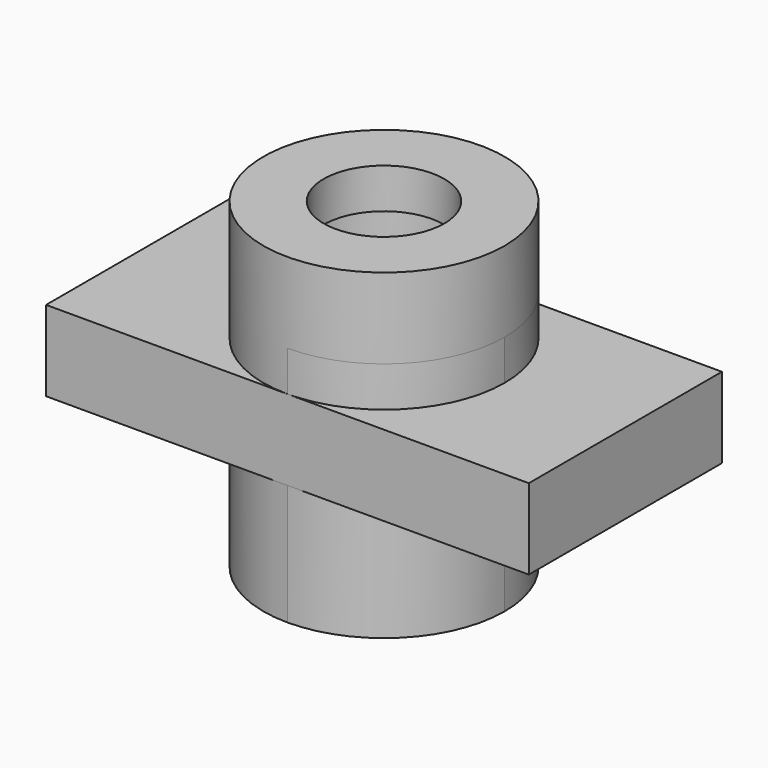
from build123d import *

# Parameters (mm, degrees)
F0_R        = 9.525
F1_DEPTH    = 12.7
F2_DEPTH    = 19.05
F3_DEPTH    = 19.05
F2_FACE_R   = 19.05
F2_FACE_R_2 = 9.525
F5_DEPTH    = 12.7
F4_R        = 12.7
F6_DEPTH    = 6.35


with BuildPart() as f1:
    # F0 (on Top) → F1 (new body)
    with BuildSketch(Plane.XY):
        with BuildLine():
            Line((0, 38.1), (0, 0))
            Line((0, 0), (38.1, 0))
            ThreePointArc((38.1, 0), (19.05, 19.05), (38.1, 38.1))
            Line((38.1, 38.1), (0, 38.1))
        make_face()
        with BuildLine():
            ThreePointArc((57.15, 19.05), (51.570384, 5.579616), (38.1, 0))
            Line((38.1, 0), (76.2, 0))
            Line((76.2, 0), (76.2, 38.1))
            Line((76.2, 38.1), (38.1, 38.1))
            ThreePointArc((38.1, 38.1), (51.570384, 32.520384), (57.15, 19.05))
        make_face()
        with BuildLine():
            ThreePointArc((38.1, 38.1), (19.05, 19.05), (38.1, 0))
            ThreePointArc((38.1, 0), (51.570384, 5.579616), (57.15, 19.05))
            ThreePointArc((57.15, 19.05), (51.570384, 32.520384), (38.1, 38.1))
        make_face()
        with Locations((38.1, 19.05)):
            Circle(F0_R, mode=Mode.SUBTRACT)
    extrude(amount=F1_DEPTH)

    # F0 (on Top) → F2 (join)
    with BuildSketch(Plane.XY):
        with BuildLine():
            ThreePointArc((38.1, 38.1), (19.05, 19.05), (38.1, 0))
            ThreePointArc((38.1, 0), (51.570384, 5.579616), (57.15, 19.05))
            ThreePointArc((57.15, 19.05), (51.570384, 32.520384), (38.1, 38.1))
        make_face()
        with Locations((38.1, 19.05)):
            Circle(F0_R, mode=Mode.SUBTRACT)
    extrude(amount=F2_DEPTH)

    # F0 (on Top) → F3 (join)
    with BuildSketch(Plane.XY):
        with BuildLine():
            ThreePointArc((38.1, 38.1), (19.05, 19.05), (38.1, 0))
            ThreePointArc((38.1, 0), (51.570384, 5.579616), (57.15, 19.05))
            ThreePointArc((57.15, 19.05), (51.570384, 32.520384), (38.1, 38.1))
        make_face()
        with Locations((38.1, 19.05)):
            Circle(F0_R, mode=Mode.SUBTRACT)
    extrude(amount=-F3_DEPTH)

    # F2_face (on face) → F5 (join)
    with BuildSketch(Plane(origin=(38.1, 19.05, 19.05), x_dir=(1, 0, 0), z_dir=(0, 0, 1))):
        Circle(F2_FACE_R)
        Circle(F2_FACE_R_2, mode=Mode.SUBTRACT)
    extrude(amount=F5_DEPTH)

    # F4 (on face) → F6 (cut)
    with BuildSketch(Plane.XY.offset(19.05)):
        with Locations((38.1, 19.05)):
            Circle(F4_R)
    extrude(amount=F6_DEPTH, mode=Mode.SUBTRACT)


solid = f1.part
